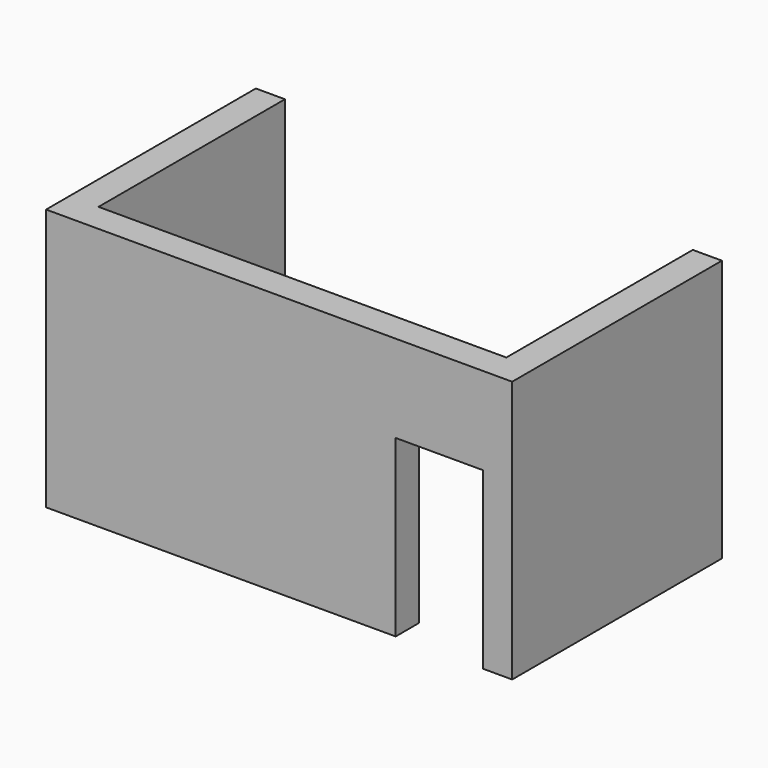
from build123d import *

# Parameters (mm, degrees)
BOX002_W     = 1
BOX002_H     = 9
BOX002_DEPTH = 9
BOX003_W     = 12
BOX003_H     = 1
BOX003_DEPTH = 9
BOX004_W     = 1
BOX004_H     = 3
BOX004_DEPTH = 3
BOX099_W     = 1
BOX099_H     = 8
BOX099_DEPTH = 9


with BuildPart() as box002:
    # Box002 → Box002 (new body)
    with BuildSketch(Plane(origin=(16, 15, 1), x_dir=(1, 0, 0), z_dir=(0, 0, 1))):
        with Locations((0.5, 4.5)):
            Rectangle(BOX002_W, BOX002_H)
    extrude(amount=BOX002_DEPTH)


with BuildPart() as box003:
    # Box003 → Box003 (new body)
    with BuildSketch(Plane(origin=(1, 15, 1), x_dir=(1, 0, 0), z_dir=(0, 0, 1))):
        with Locations((6, 0.5)):
            Rectangle(BOX003_W, BOX003_H)
    extrude(amount=BOX003_DEPTH)


with BuildPart() as fusion030:
    # Box004 → Box004 (new body)
    with BuildSketch(Plane(origin=(16, 15, 7), x_dir=(0, 1, 0), z_dir=(0, 0, 1))):
        with Locations((0.5, 1.5)):
            Rectangle(BOX004_W, BOX004_H)
    extrude(amount=BOX004_DEPTH)

    # Fusion030: union Box002, Box003
    add(box002.part)
    add(box003.part)


with BuildPart() as fusion030_1:
    # Fusion030 placement: moved
    add(fusion030.part.moved(Location((9, 0, 0))))


with BuildPart() as fusion039:
    # Box099 → Box099 (new body)
    with BuildSketch(Plane(origin=(10, 16, 1), x_dir=(1, 0, 0), z_dir=(0, 0, 1))):
        with Locations((0.5, 4)):
            Rectangle(BOX099_W, BOX099_H)
    extrude(amount=BOX099_DEPTH)

    # Fusion039: union Fusion030
    add(fusion030_1.part)


solid = fusion039.part
